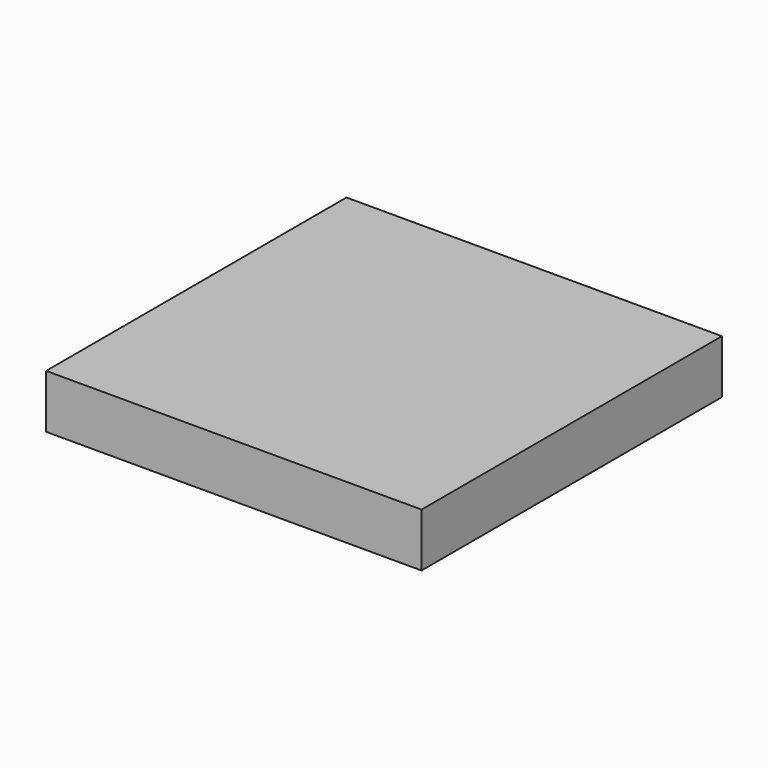
from build123d import *

# Parameters (mm, degrees)
F1_W     = 177.8
F1_H     = 177.8
F2_DEPTH = 25.4
F0_W     = 22.492748
F0_H     = 44.443493
F0_W_2   = 22.317298
F0_H_2   = 22.221747
F3_DEPTH = 25.4


with BuildPart() as f2:
    # F1 (on face) → F2 (new body)
    with BuildSketch(Plane.XY):
        Rectangle(F1_W, F1_H)
    extrude(amount=F2_DEPTH)

    # F0 (on Top) → F3 (cut)
    with BuildSketch(Plane.XY):
        Polygon((-44.733308, 0), (-44.733308, -22.146555), (-22.431135, -22.290105), (-22.431135, -66.590048), (0, -66.590048), (0, -44.099309), (22.443322, -44.099309), (22.443322, -22.290105), (0, -22.290105), (0, 0), (22.499099, 0), (22.499099, 22.651171), (66.545643, 22.651171), (66.545643, 44.861104), (44.157621, 44.861104), (44.157621, 67.118011), (0, 67.118011), (0, 22.651171), (-22.431135, 22.651171), (-22.431135, 67.118011), (-67.136399, 67.118011), (-67.050606, 44.546161), (-44.733308, 44.546161), (-44.733308, 22.651171), (-67.050606, 22.651171), (-67.050606, 0), align=None)
        with Locations((55.283399, -44.368302)):
            Rectangle(F0_W, F0_H)
        with Locations((-55.891957, -33.257429)):
            Rectangle(F0_W_2, F0_H_2)
    extrude(amount=-F3_DEPTH, mode=Mode.SUBTRACT)


solid = f2.part
